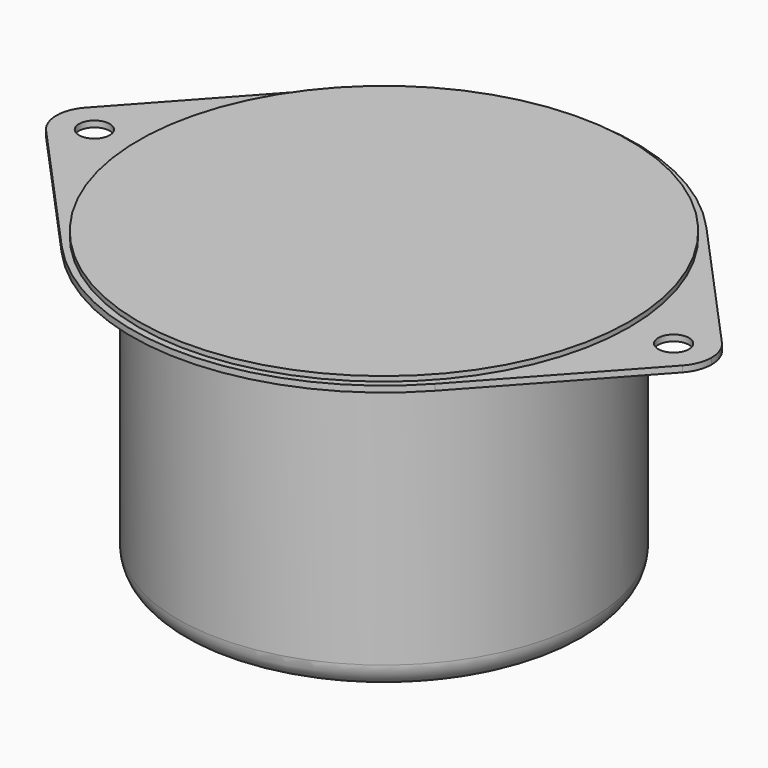
from build123d import *

# Parameters (mm, degrees)
F2_R     = 1.5875
F3_DEPTH = 0.635
F4_R     = 2.54


with BuildPart() as f1:
    # F0 (on Front) → F1 (revolve)
    with BuildSketch(Plane.XZ):
        Polygon((26.0985, 14.351), (26.0985, 14.986), (25.4, 14.986), (25.4, 15.494), (0, 15.494), (0, -15.494), (21.336, -15.494), (21.336, 14.351), align=None)
    revolve(axis=Axis((0, 0, -4.175231), (0, 0, -1)))

    # F2 (on face) → F3 (join, through all)
    with BuildSketch(Plane.XY.offset(14.986)):
        with BuildLine():
            ThreePointArc((19.326104, -17.539481), (24.346602, -9.400781), (26.0985, 0))
            ThreePointArc((26.0985, 0), (24.346602, 9.400781), (19.326104, 17.539481))
            ThreePointArc((19.326104, 17.539481), (0, 26.0985), (-19.326104, 17.539481))
            ThreePointArc((-19.326104, 17.539481), (-26.0985, 0), (-19.326104, -17.539481))
            ThreePointArc((-19.326104, -17.539481), (0, -26.0985), (19.326104, -17.539481))
        make_face()
        with BuildLine():
            ThreePointArc((19.326104, 17.539481), (24.346602, 9.400781), (26.0985, 0))
            ThreePointArc((26.0985, 0), (24.346602, -9.400781), (19.326104, -17.539481))
            Line((19.326104, -17.539481), (32.920329, -2.560508))
            ThreePointArc((32.920329, -2.560508), (26.289, 0), (32.920329, 2.560508))
            Line((32.920329, 2.560508), (19.326104, 17.539481))
        make_face()
        with BuildLine():
            ThreePointArc((-19.326104, -17.539481), (-26.0985, 0), (-19.326104, 17.539481))
            Line((-19.326104, 17.539481), (-32.920329, 2.560508))
            ThreePointArc((-32.920329, 2.560508), (-28.726623, 3.554248), (-26.289, 0))
            ThreePointArc((-26.289, 0), (-28.726623, -3.554248), (-32.920329, -2.560508))
            Line((-32.920329, -2.560508), (-19.326104, -17.539481))
        make_face()
        with BuildLine():
            ThreePointArc((33.909, 0), (33.653248, 1.372377), (32.920329, 2.560508))
            ThreePointArc((32.920329, 2.560508), (26.289, 0), (32.920329, -2.560508))
            ThreePointArc((32.920329, -2.560508), (33.653248, -1.372377), (33.909, 0))
        make_face()
        with Locations((29.972, 0)):
            Circle(F2_R, mode=Mode.SUBTRACT)
        with BuildLine():
            ThreePointArc((-26.289, 0), (-28.726623, 3.554248), (-32.920329, 2.560508))
            ThreePointArc((-32.920329, 2.560508), (-33.909, 0), (-32.920329, -2.560508))
            ThreePointArc((-32.920329, -2.560508), (-28.726623, -3.554248), (-26.289, 0))
        make_face()
        with Locations((-29.972, 0)):
            Circle(F2_R, mode=Mode.SUBTRACT)
    extrude(amount=-F3_DEPTH)

    # F4
    f4_edges = [f1.edges().sort_by_distance(p)[0] for p in [
        (-21.336, 0, -15.494),
    ]]
    fillet(f4_edges, radius=F4_R)


solid = f1.part
